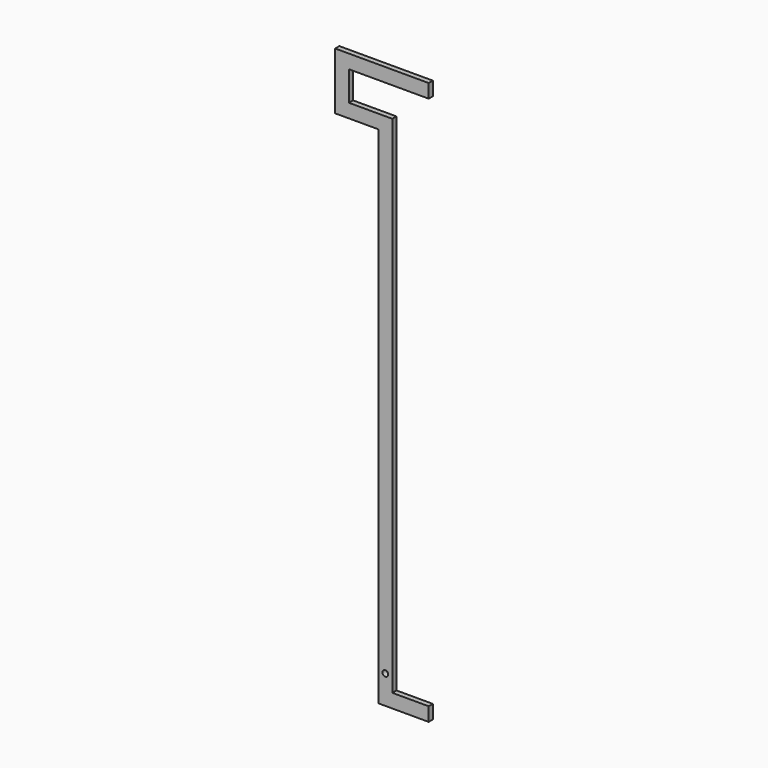
from build123d import *

# Parameters (mm, degrees)
F1_W     = 3.6044168291
F1_H     = 9.5502150147
F4_D     = 4
F4_DEPTH = 12
F4_TIP   = 1.2017212381


with BuildPart() as f2:
    # F2: sweep along a path in F0
    with BuildLine(Plane.XZ) as f2_path:
        Line((30, -15), (0, -15))
        Line((0, -15), (0, 335))
        Line((0, 335), (-30, 335))
        Line((-30, 335), (-30, 365))
        Line((-30, 365), (30, 365))
    # F1 (on Right) → F2 (sweep)
    with BuildSketch(Plane.YZ):
        with Locations((0, -15)):
            Rectangle(F1_W, F1_H)
    sweep(path=f2_path.line, transition=Transition.RIGHT)

    # F4
    with Locations(Plane.XZ.offset(1.8022084145)):
        with Locations((0, 0)):
            Hole(F4_D / 2, depth=F4_DEPTH)
            with Locations((0, 0, -(F4_DEPTH + F4_TIP / 2))):  # 118° drill point
                Cone(0, F4_D / 2, F4_TIP, mode=Mode.SUBTRACT)


solid = f2.part
